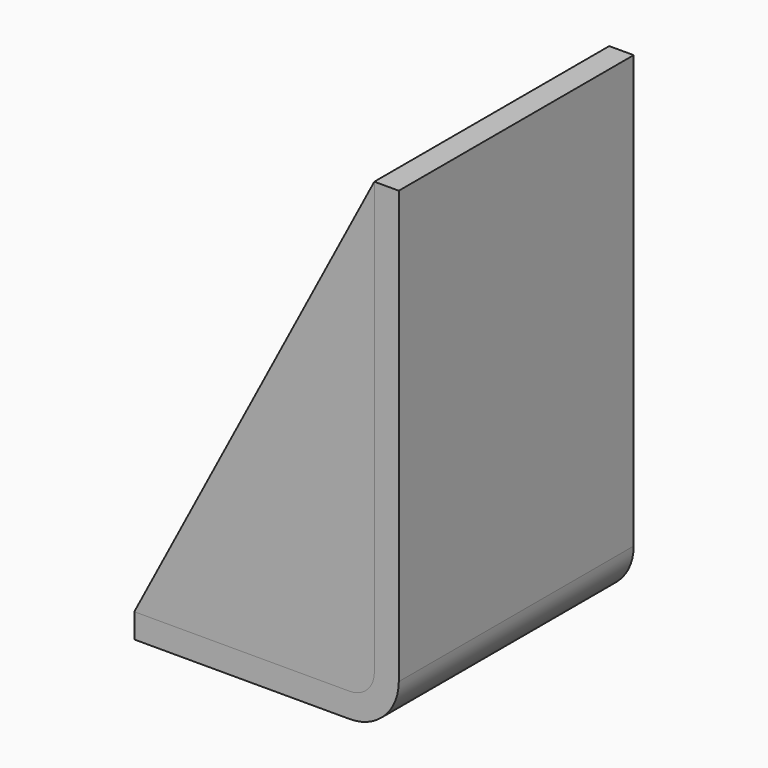
from build123d import *

# Parameters (mm, degrees)
F1_DEPTH = 6.35
F3_DEPTH = 76.2
F6_D     = 17
F6_DEPTH = 6.35
F6_TIP   = 5.1073152617


with BuildPart() as f1:
    # F0 (on Front) → F1 (new body)
    with BuildSketch(Plane.XZ):
        with BuildLine():
            Line((0, 0), (-62.285, -118.497))
            Line((-62.285, -118.497), (-6.35, -118.497))
            ThreePointArc((-6.35, -118.497), (-1.8598719395, -116.6371280605), (0, -112.147))
            Line((0, -112.147), (0, 0))
        make_face()
    extrude(amount=F1_DEPTH)


with BuildPart() as f3:
    # F2 (on Front) → F3 (new body)
    with BuildSketch(Plane.XZ):
        with BuildLine():
            Line((6.35, 0), (0, 0))
            Line((0, 0), (0, -112.147))
            ThreePointArc((0, -112.147), (-1.8598719395, -116.6371280605), (-6.35, -118.497))
            Line((-6.35, -118.497), (-62.285, -118.497))
            Line((-62.285, -118.497), (-62.285, -124.847))
            Line((-62.285, -124.847), (-6.35, -124.847))
            ThreePointArc((-6.35, -124.847), (2.6302561211, -121.1272561211), (6.35, -112.147))
            Line((6.35, -112.147), (6.35, 0))
        make_face()
    extrude(amount=F3_DEPTH)

    # F6
    with Locations(Plane.XY.offset(-118.497)):
        with Locations((-31.575, -38.1)):
            Hole(F6_D / 2, depth=F6_DEPTH)
            with Locations((0, 0, -(F6_DEPTH + F6_TIP / 2))):  # 118° drill point
                Cone(0, F6_D / 2, F6_TIP, mode=Mode.SUBTRACT)


with BuildPart() as f4_1:
    # F4: copy of F1
    add(f1.part.moved(Location((0, -69.85, 0))))


solid = Compound([f1.part, f3.part, f4_1.part])
